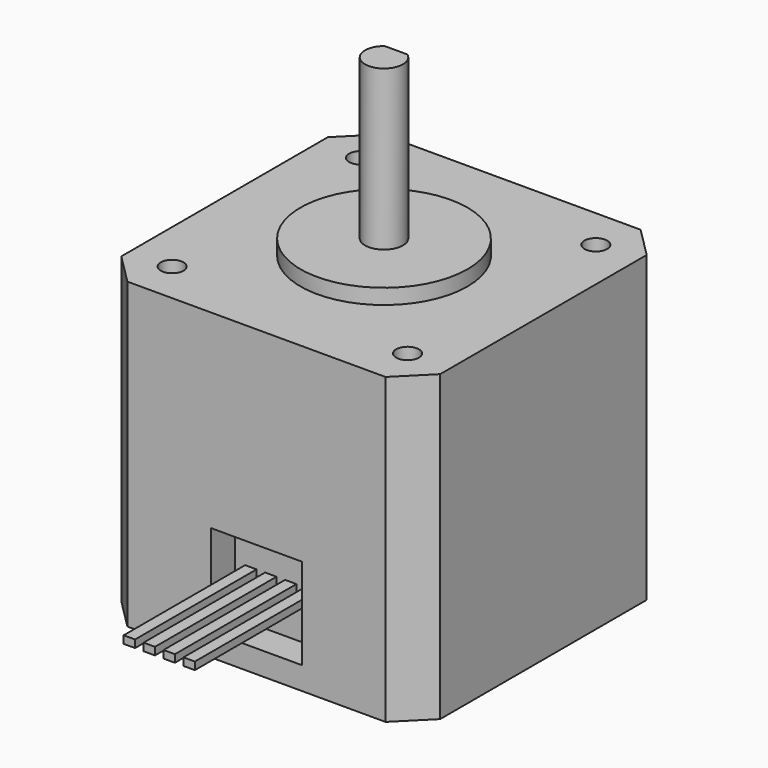
from build123d import *

# Parameters (mm, degrees)
F0_W      = 42
F0_H      = 42
F1_DEPTH  = 40
F2_R      = 1.5
F3_DEPTH  = 4.5
F5_DEPTH  = 40.001
F6_R      = 11
F7_DEPTH  = 2
F8_R      = 2.5
F9_DEPTH  = 21
F11_DEPTH = 14
F12_W     = 12
F12_H     = 12
F13_DEPTH = 4
F14_W     = 1.5
F14_H     = 1
F15_DEPTH = 20


with BuildPart() as f1:
    # F0 (on Top) → F1 (new body)
    with BuildSketch(Plane.XY):
        Rectangle(F0_W, F0_H)
    extrude(amount=F1_DEPTH)

    # F2 (on face) → F3 (cut)
    with BuildSketch(Plane.XY.offset(40)):
        with Locations((15.5, 15.5)):
            Circle(F2_R)
        with Locations((15.5, -15.5)):
            Circle(F2_R)
        with Locations((-15.5, -15.5)):
            Circle(F2_R)
        with Locations((-15.5, 15.5)):
            Circle(F2_R)
    extrude(amount=-F3_DEPTH, mode=Mode.SUBTRACT)

    # F4 (on face) → F5 (cut, through all)
    with BuildSketch(Plane.XY.offset(40)):
        Polygon((17, 21), (21, 17), (21, 21), align=None)
        Polygon((17, -21), (21, -21), (21, -17), align=None)
        Polygon((-17, -21), (-21, -17), (-21, -21), align=None)
        Polygon((-17, 21), (-21, 21), (-21, 17), align=None)
    extrude(amount=-F5_DEPTH, mode=Mode.SUBTRACT)

    # F6 (on face) → F7 (join)
    with BuildSketch(Plane.XY.offset(40)):
        Circle(F6_R)
    extrude(amount=F7_DEPTH)

    # F8 (on face) → F9 (join)
    with BuildSketch(Plane.XY.offset(42)):
        Circle(F8_R)
    extrude(amount=F9_DEPTH)

    # F10 (on face) → F11 (cut)
    with BuildSketch(Plane.XY.offset(63)):
        with BuildLine():
            Line((-1.5, 2), (1.5, 2))
            ThreePointArc((1.5, 2), (0, 2.5), (-1.5, 2))
        make_face()
    extrude(amount=-F11_DEPTH, mode=Mode.SUBTRACT)

    # F12 (on face) → F13 (cut)
    with BuildSketch(Plane.XZ.offset(21)):
        with Locations((0, 9)):
            Rectangle(F12_W, F12_H)
    extrude(amount=-F13_DEPTH, mode=Mode.SUBTRACT)

    # F14 (on face) → F15 (join)
    with BuildSketch(Plane.XZ.offset(17)):
        with Locations((-3.9375, 9)):
            Rectangle(F14_W, F14_H)
        with Locations((-1.3125, 9)):
            Rectangle(F14_W, F14_H)
        with Locations((1.3125, 9)):
            Rectangle(F14_W, F14_H)
        with Locations((3.9375, 9)):
            Rectangle(F14_W, F14_H)
    extrude(amount=F15_DEPTH)


solid = f1.part
